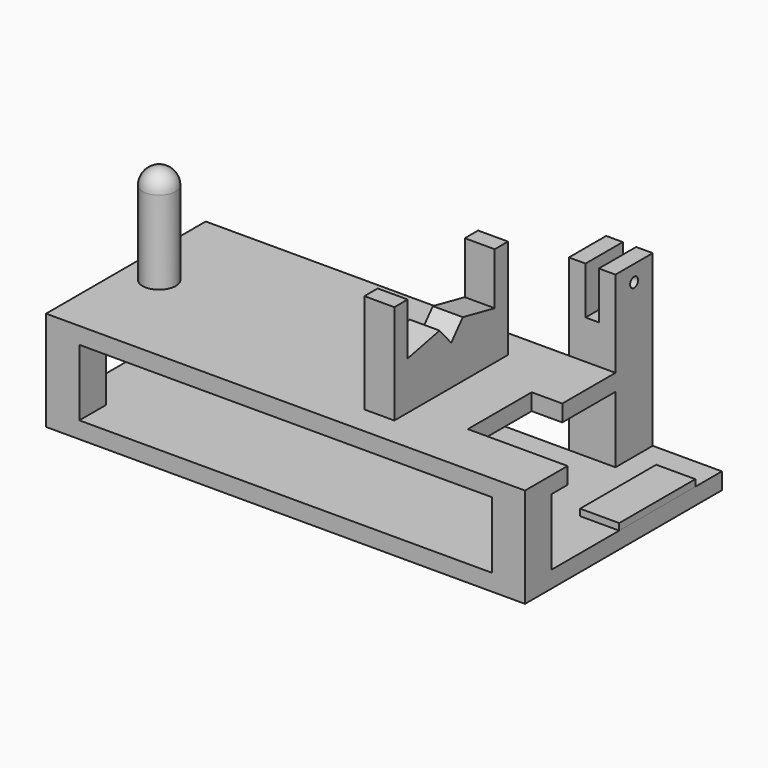
from build123d import *

# Parameters (mm, degrees)
F0_W      = 720
F0_H      = 300
F1_DEPTH  = 25
F2_W      = 50
F2_H      = 50
F3_DEPTH  = 100
F4_W      = 50
F4_H      = 50
F5_DEPTH  = 100
F6_W      = 50
F6_H      = 50
F7_DEPTH  = 25
F8_R      = 25
F9_DEPTH  = 150
F10_W     = 45
F10_H     = 106.833779
F11_DEPTH = 150
F13_DEPTH = 50
F14_W     = 70
F14_H     = 70
F15_DEPTH = 150
F16_DEPTH = 130
F17_R     = 25
F18_W     = 150
F18_H     = 120
F19_DEPTH = 25
F20_W     = 104
F20_H     = 100
F21_DEPTH = 150
F22_W     = 104
F22_H     = 170
F23_DEPTH = 25
F24_W     = 20
F24_H     = 71.34236
F25_DEPTH = 80
F26_R     = 7.5
F27_DEPTH = 616.001
F28_W     = 58.787813
F28_H     = 143
F29_DEPTH = 10


with BuildPart() as f1:
    # F0 (on Top) → F1 (new body)
    with BuildSketch(Plane.XY):
        Rectangle(F0_W, F0_H)
    extrude(amount=F1_DEPTH)

    # F2 (on face) → F3 (join)
    with BuildSketch(Plane.XY.offset(25)):
        with Locations((-335, -125)):
            Rectangle(F2_W, F2_H)
    extrude(amount=F3_DEPTH)

    # F4 (on face) → F5 (join)
    with BuildSketch(Plane.XY.offset(25)):
        with Locations((335, -125)):
            Rectangle(F4_W, F4_H)
        with Locations((-335, 125)):
            Rectangle(F4_W, F4_H)
        with Locations((335, 125)):
            Rectangle(F4_W, F4_H)
    extrude(amount=F5_DEPTH)

    # F6 (on face) → F7 (join)
    with BuildSketch(Plane.XY.offset(125)):
        with Locations((-335, 125)):
            Rectangle(F6_W, F6_H)
        Polygon((360, 150), (-310, 150), (-310, 100), (-360, 100), (-360, -150), (360, -150), align=None)
    extrude(amount=F7_DEPTH)

    # F8 (on face) → F9 (join)
    with BuildSketch(Plane.XY.offset(150)):
        with Locations((-310, 0)):
            Circle(F8_R)
    extrude(amount=F9_DEPTH)

    # F10 (on face) → F11 (join)
    with BuildSketch(Plane.XY.offset(150)):
        with Locations((106.5, -53.416889)):
            Rectangle(F10_W, F10_H)
        with Locations((106.5, 53.416889)):
            Rectangle(F10_W, F10_H)
    extrude(amount=F11_DEPTH)

    # F12 (on face) → F13 (cut)
    with BuildSketch(Plane.YZ.offset(129)):
        Polygon((81.833779, 300), (-81.833779, 300), (-81.833779, 221.944749), (-21.833779, 234.489977), (0, 209.399506), (21.833779, 234.489977), (81.833779, 221.944749), align=None)
    extrude(amount=-F13_DEPTH, mode=Mode.SUBTRACT)

    # F14 (on face) → F15 (join)
    with BuildSketch(Plane.XY.offset(150)):
        with Locations((221, 185)):
            Rectangle(F14_W, F14_H)
    extrude(amount=-F15_DEPTH)

    # F14 (on face) → F16 (join)
    with BuildSketch(Plane.XY.offset(150)):
        with Locations((221, 185)):
            Rectangle(F14_W, F14_H)
    extrude(amount=F16_DEPTH)

    # F17
    f17_edges = [f1.edges().sort_by_distance(p)[0] for p in [
        (-335, 0, 300),
    ]]
    fillet(f17_edges, radius=F17_R)

    # F18 (on face) → F19 (cut)
    with BuildSketch(Plane.XY.offset(150)):
        with Locations((285, -10)):
            Rectangle(F18_W, F18_H)
    extrude(amount=-F19_DEPTH, mode=Mode.SUBTRACT)

    # F20 (on face) → F21 (cut)
    with BuildSketch(Plane.XY.offset(150)):
        with Locations((308, 100)):
            Rectangle(F20_W, F20_H)
    extrude(amount=-F21_DEPTH, mode=Mode.SUBTRACT)

    # F22 (on face) → F23 (join)
    with BuildSketch(Plane.XY.offset(25)):
        with Locations((308, 135)):
            Rectangle(F22_W, F22_H)
    extrude(amount=-F23_DEPTH)

    # F24 (on face) → F25 (cut)
    with BuildSketch(Plane.XZ.offset(-150)):
        with Locations((221, 244.32882)):
            Rectangle(F24_W, F24_H)
    extrude(amount=-F25_DEPTH, mode=Mode.SUBTRACT)

    # F26 (on face) → F27 (cut, through all)
    with BuildSketch(Plane.YZ.offset(256)):
        with Locations((185, 255.659133)):
            Circle(F26_R)
    extrude(amount=-F27_DEPTH, mode=Mode.SUBTRACT)

    # F28 (on face) → F29 (join)
    with BuildSketch(Plane.XY.offset(25)):
        with Locations((330.606093, 98.5)):
            Rectangle(F28_W, F28_H)
    extrude(amount=F29_DEPTH)


solid = f1.part
